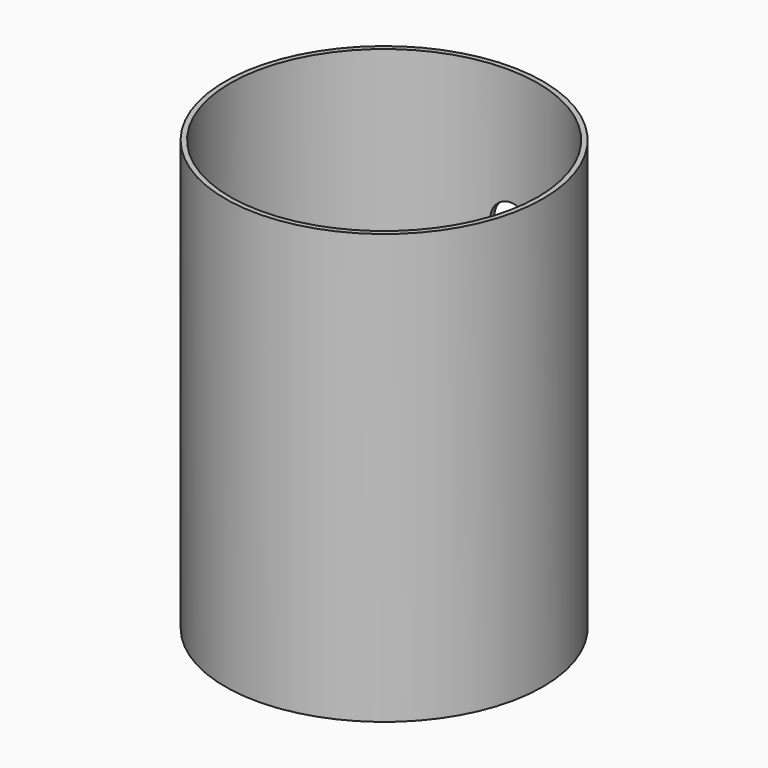
from build123d import *

# Parameters (mm, degrees)
CYLINDER005_R     = 2.75
CYLINDER005_DEPTH = 10
CYLINDER004_R     = 21.5
CYLINDER004_DEPTH = 60
CYLINDER003_R     = 22.2
CYLINDER003_DEPTH = 60


with BuildPart() as cylinder005:
    # Cylinder005 → Cylinder005 (new body)
    with BuildSketch(Plane(origin=(0.5, 26, 66), x_dir=(1, 0, 0), z_dir=(0, -1, 0))):
        Circle(CYLINDER005_R)
    extrude(amount=CYLINDER005_DEPTH)


with BuildPart() as cylinder004:
    # Cylinder004 → Cylinder004 (new body)
    with BuildSketch(Plane.XY):
        Circle(CYLINDER004_R)
    extrude(amount=CYLINDER004_DEPTH)


with BuildPart() as cylindrical_section:
    # Cylinder003 → Cylinder003 (new body)
    with BuildSketch(Plane.XY):
        Circle(CYLINDER003_R)
    extrude(amount=CYLINDER003_DEPTH)

    # Cut002: cut Cylinder004
    add(cylinder004.part, mode=Mode.SUBTRACT)


with BuildPart() as cylindrical_section_1:
    # Cut002 placement: moved
    add(cylindrical_section.part.moved(Location((0, 0, 25))))

    # Cut004: cut Cylinder005
    add(cylinder005.part, mode=Mode.SUBTRACT)


solid = cylindrical_section_1.part
